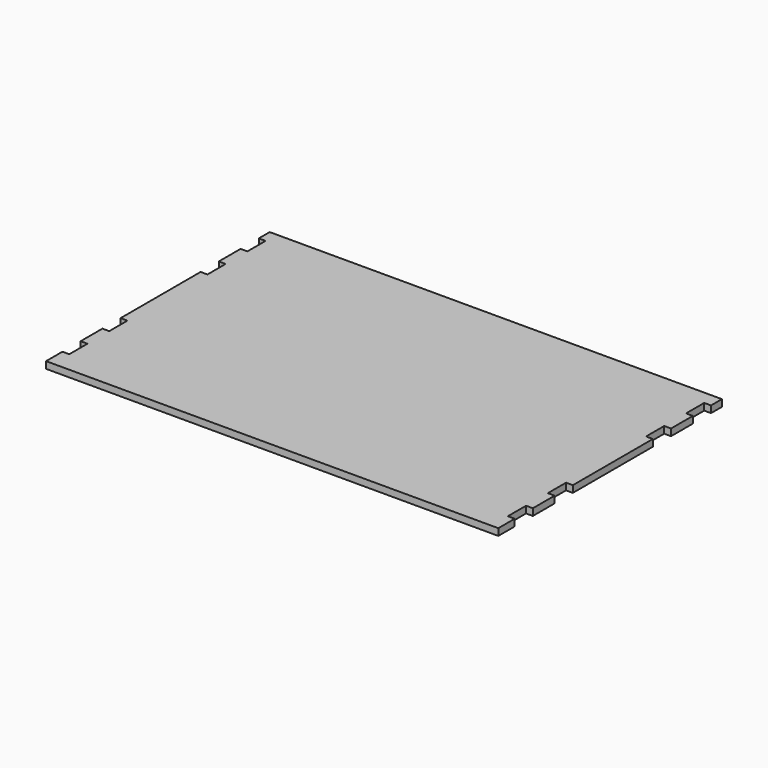
from build123d import *

# Parameters (mm, degrees)
F0_W     = 1263.65
F0_H     = 781.05
F1_DEPTH = 19.05
F2_W     = 63.5
F2_H     = 19.05
F3_DEPTH = 19.05
F4_W     = 63.5
F4_H     = 19.05
F5_DEPTH = 19.05


with BuildPart() as f1:
    # F0 (on Top) → F1 (new body)
    with BuildSketch(Plane.XY):
        with Locations((177.019935, -13.043978)):
            Rectangle(F0_W, F0_H)
    extrude(amount=F1_DEPTH)

    # F2 (on face) → F3 (cut)
    with BuildSketch(Plane.YZ.offset(808.844935)):
        with Locations((307.631022, 9.525)):
            Rectangle(F2_W, F2_H)
        with Locations((167.931022, 9.525)):
            Rectangle(F2_W, F2_H)
        with Locations((-174.968978, 9.525)):
            Rectangle(F2_W, F2_H)
        with Locations((-314.668978, 9.525)):
            Rectangle(F2_W, F2_H)
    extrude(amount=-F3_DEPTH, mode=Mode.SUBTRACT)

    # F4 (on face) → F5 (cut)
    with BuildSketch(Plane(origin=(-454.805065, 0, 0), x_dir=(0, -1, 0), z_dir=(-1, 0, 0))):
        with Locations((-167.931022, 9.525)):
            Rectangle(F4_W, F4_H)
        with Locations((174.968978, 9.525)):
            Rectangle(F4_W, F4_H)
        with Locations((314.668978, 9.525)):
            Rectangle(F4_W, F4_H)
        with Locations((-307.631022, 9.525)):
            Rectangle(F4_W, F4_H)
    extrude(amount=-F5_DEPTH, mode=Mode.SUBTRACT)


solid = f1.part
